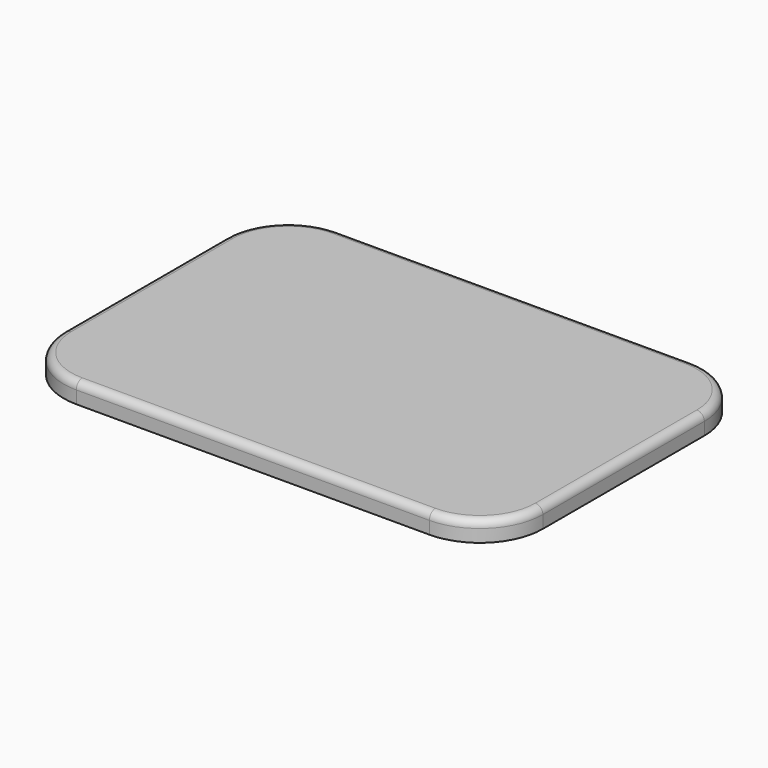
from build123d import *

# Parameters (mm, degrees)
F0_W     = 190
F0_H     = 130
F1_DEPTH = 8
F2_R     = 25
F3_R     = 3


with BuildPart() as f1:
    # F0 (on Top) → F1 (new body)
    with BuildSketch(Plane.XY):
        Rectangle(F0_W, F0_H)
    extrude(amount=F1_DEPTH)

    # F2
    f2_edges = [f1.edges().sort_by_distance(p)[0] for p in [
        (-95, 65, 4),
        (-95, -65, 4),
        (95, -65, 4),
        (95, 65, 4),
    ]]
    fillet(f2_edges, radius=F2_R)

    # F3
    f3_edges = [f1.edges().sort_by_distance(p)[0] for p in [
        (0, 65, 8),
        (87.67767, 57.67767, 8),
        (-87.67767, 57.67767, 8),
        (95, 0, 8),
        (-95, 0, 8),
        (87.67767, -57.67767, 8),
        (-87.67767, -57.67767, 8),
        (0, -65, 8),
    ]]
    fillet(f3_edges, radius=F3_R)


solid = f1.part
